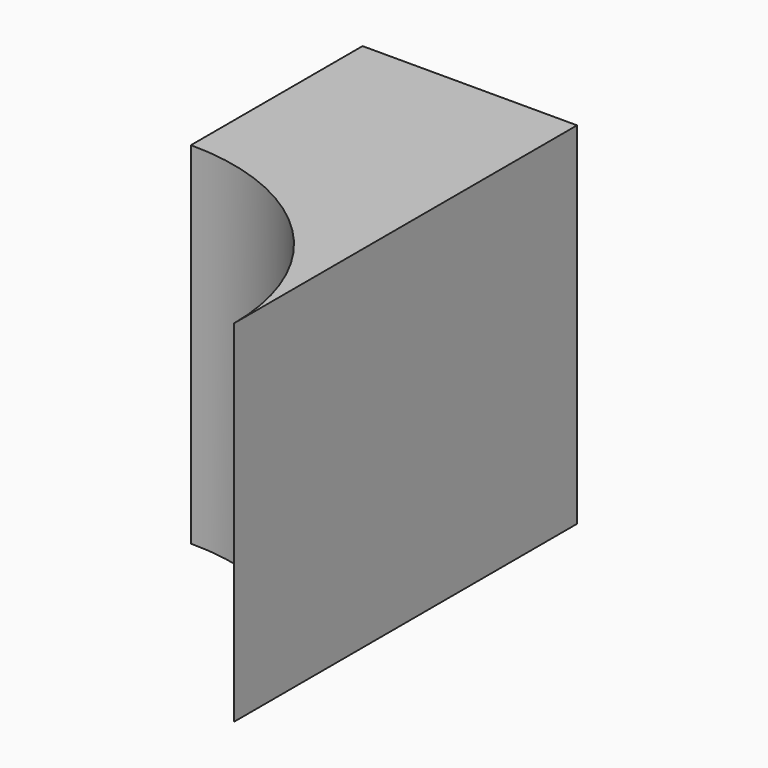
from build123d import *

# Parameters (mm, degrees)
F0_W     = 254
F0_H     = 207.7129894555
F1_DEPTH = 127
F2_R     = 127
F3_DEPTH = 207.7139894555


with BuildPart() as f1:
    # F0 (on Right) → F1 (new body)
    with BuildSketch(Plane.YZ):
        with Locations((127, 103.8564947277)):
            Rectangle(F0_W, F0_H)
    extrude(amount=F1_DEPTH)

    # F2 (on face) → F3 (cut, through all)
    with BuildSketch(Plane(origin=(0, 0, 0), x_dir=(1, 0, 0), z_dir=(0, 0, -1))):
        Circle(F2_R)
    extrude(amount=-F3_DEPTH, mode=Mode.SUBTRACT)


solid = f1.part
